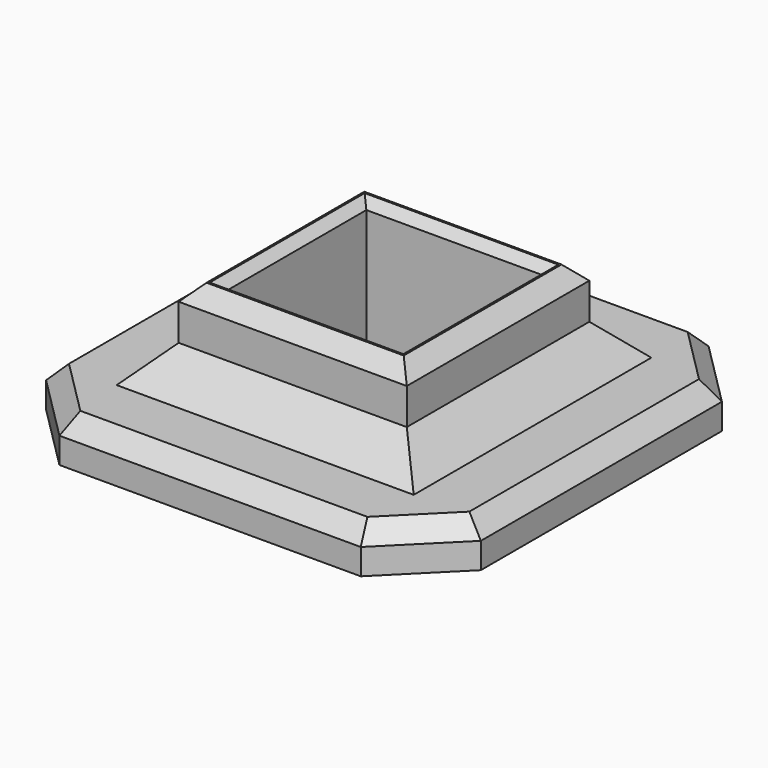
from build123d import *

# Parameters (mm, degrees)
SKETCH_W        = 20.5
SKETCH_H        = 20.5
PAD_DEPTH       = 5
SKETCH001_W     = 26.5
SKETCH001_H     = 26.5
SKETCH001_W_2   = 20.5
SKETCH001_H_2   = 20.5
PAD001_DEPTH    = 10
CHAMFER_SIZE    = 4
CHAMFER001_SIZE = 1
CHAMFER002_SIZE = 1.8
CHAMFER003_SIZE = 2
SKETCH003_R     = 3


with BuildPart() as part:
    # Sketch → Pad (new body)
    with BuildSketch(Plane.XY):
        Polygon((7.25, -15), (15, -7.25), (15, 27.75), (7.25, 35.5), (-27.75, 35.5), (-35.5, 27.75), (-35.5, -7.25), (-27.75, -15), align=None)
        with Locations((-10.25, 10.25)):
            Rectangle(SKETCH_W, SKETCH_H, mode=Mode.SUBTRACT)
    extrude(amount=PAD_DEPTH)

    # Sketch001 (on Face14 of Pad) → Pad001 (join)
    with BuildSketch(Plane.XY.offset(5)):
        with Locations((-10.25, 10.25)):
            Rectangle(SKETCH001_W, SKETCH001_H)
        with Locations((-10.25, 10.25)):
            Rectangle(SKETCH001_W_2, SKETCH001_H_2, mode=Mode.SUBTRACT)
    extrude(amount=PAD001_DEPTH)

    # Chamfer
    chamfer_edges = [part.edges().sort_by_distance(p)[0] for p in [
        (-10.25, -3, 5),
        (3, 10.25, 5),
        (-10.25, 23.5, 5),
        (-23.5, 10.25, 5),
    ]]
    chamfer(chamfer_edges, length=CHAMFER_SIZE)

    # Chamfer001
    chamfer001_edges = [part.edges().sort_by_distance(p)[0] for p in [
        (0, 10.25, 15),
        (-10.25, 0, 15),
        (-20.5, 10.25, 15),
        (-10.25, 20.5, 15),
    ]]
    chamfer(chamfer001_edges, length=CHAMFER001_SIZE)

    # Chamfer002
    chamfer002_edges = [part.edges().sort_by_distance(p)[0] for p in [
        (3, 10.25, 15),
        (-10.25, 23.5, 15),
        (-23.5, 10.25, 15),
        (-10.25, -3, 15),
    ]]
    chamfer(chamfer002_edges, length=CHAMFER002_SIZE)

    # Chamfer003
    chamfer003_edges = [part.edges().sort_by_distance(p)[0] for p in [
        (15, 10.25, 5),
        (11.125, 31.625, 5),
        (-10.25, 35.5, 5),
        (-31.625, 31.625, 5),
        (-35.5, 10.25, 5),
        (-31.625, -11.125, 5),
        (-10.25, -15, 5),
        (11.125, -11.125, 5),
    ]]
    chamfer(chamfer003_edges, length=CHAMFER003_SIZE)

    # SubtractivePipe: sweep along a path in Sketch002
    with BuildLine(Plane(origin=(0, 0, 0), x_dir=(1, 0, 0), z_dir=(0, 0, -1))) as subtractivepipe_path:
        Line((-27.5, -23.964466), (-27.5, 4.464466))
        Line((-27.5, 4.464466), (-23.964466, 8))
        Line((-23.964466, 8), (3.464466, 8))
        Line((3.464466, 8), (7, 4.464466))
        Line((7, 4.464466), (7, -23.964466))
        Line((7, -23.964466), (3.464466, -27.5))
        Line((3.464466, -27.5), (-23.964466, -27.5))
        Line((-23.964466, -27.5), (-27.5, -23.964466))
    # Sketch003 → SubtractivePipe (sweep, cut)
    with BuildSketch(Plane.XZ):
        with Locations((-27.5, 0)):
            Circle(SKETCH003_R)
    sweep(path=subtractivepipe_path.line, transition=Transition.RIGHT, mode=Mode.SUBTRACT)


solid = part.part
